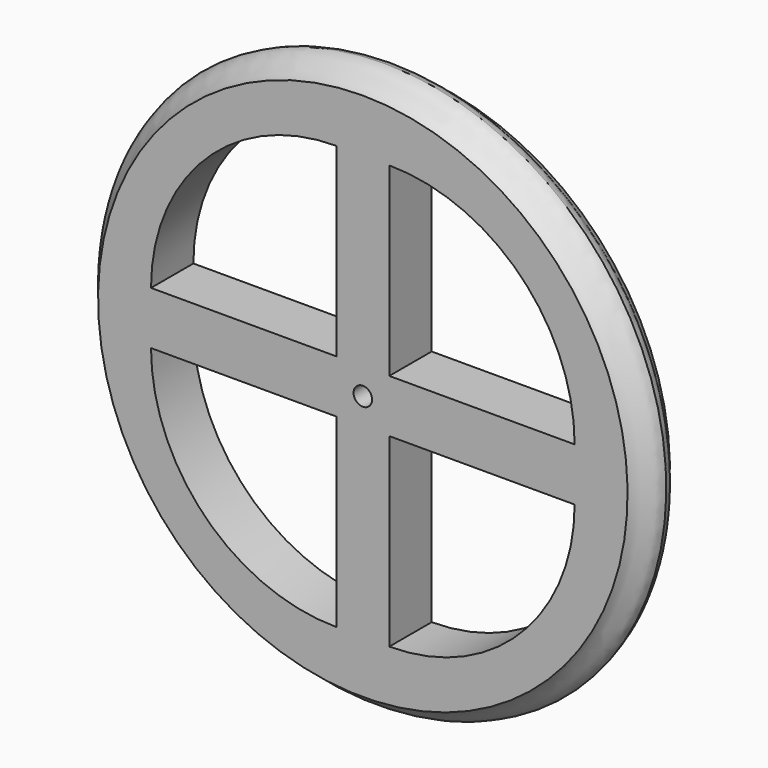
from build123d import *

# Parameters (mm, degrees)
F0_R     = 50
F1_DEPTH = 10
F5_R     = 1.75
F6_DEPTH = 10.001
F8_DEPTH = 10.001


with BuildPart() as f1:
    # F0 (on Front) → F1 (new body)
    with BuildSketch(Plane.XZ):
        Circle(F0_R)
    extrude(amount=F1_DEPTH)

    # F3 (on Right) → F4 (revolve)
    with BuildSketch(Plane.YZ):
        with BuildLine():
            Line((-10, 50), (0, 50))
            add(Edge.make_bspline(
                [(0, 50), (-2.587933, 50.855839), (-2.303226, 52.902121), (-5, 53.30912)],
                knots=[0, 0, 0, 0, 5.995855, 5.995855, 5.995855, 5.995855], degree=3))
            add(Edge.make_bspline(
                [(-10, 50), (-7.412067, 50.855839), (-7.696774, 52.902121), (-5, 53.30912)],
                knots=[0, 0, 0, 0, 5.995855, 5.995855, 5.995855, 5.995855], degree=3))
        make_face()
    revolve(axis=Axis((0, -20.942401, 0), (0, -1, 0)))

    # F5 (on face) → F6 (cut, through all)
    with BuildSketch(Plane.XZ.offset(10)):
        Circle(F5_R)
    extrude(amount=-F6_DEPTH, mode=Mode.SUBTRACT)

    # F7 (on face) → F8 (cut, through all)
    with BuildSketch(Plane.XZ.offset(10)):
        with BuildLine():
            Line((-40, 5), (-5, 5))
            Line((-5, 5), (-5, 40))
            ThreePointArc((-5, 40), (-29.748737, 29.748737), (-40, 5))
        make_face()
        with BuildLine():
            ThreePointArc((40, 5), (29.748737, 29.748737), (5, 40))
            Line((5, 40), (5, 5))
            Line((5, 5), (40, 5))
        make_face()
        with BuildLine():
            Line((40, -5), (5, -5))
            Line((5, -5), (5, -40))
            ThreePointArc((5, -40), (29.748737, -29.748737), (40, -5))
        make_face()
        with BuildLine():
            Line((-5, -40), (-5, -5))
            Line((-5, -5), (-40, -5))
            ThreePointArc((-40, -5), (-29.748737, -29.748737), (-5, -40))
        make_face()
    extrude(amount=-F8_DEPTH, mode=Mode.SUBTRACT)


solid = f1.part
